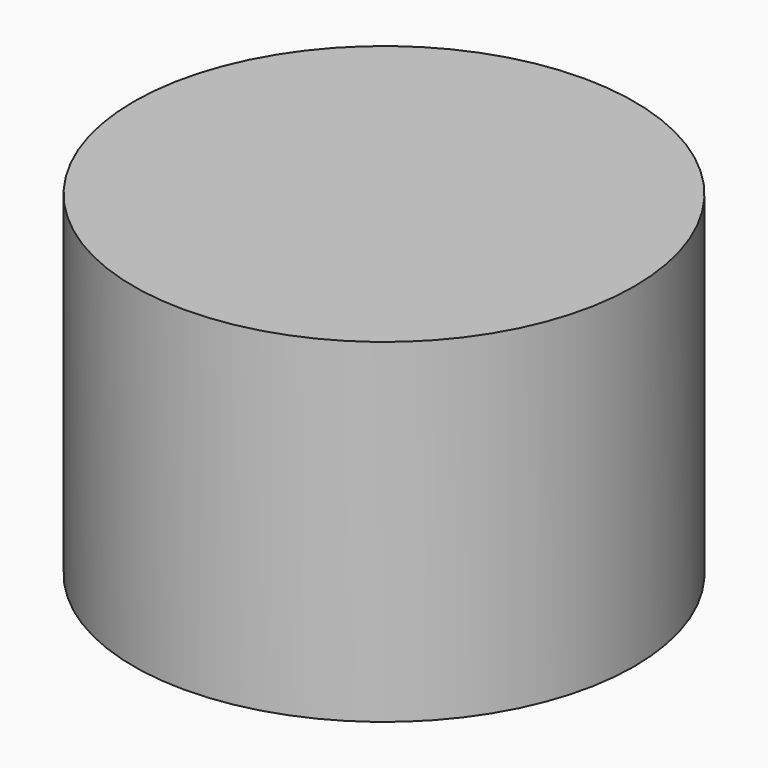
from build123d import *

# Parameters (mm, degrees)
SKETCH_R     = 9.5
PAD_DEPTH    = 12.7
SKETCH001_R  = 6.35
POCKET_DEPTH = 6.35
CHAMFER_SIZE = 1


with BuildPart() as part:
    # Sketch → Pad (new body)
    with BuildSketch(Plane.XY):
        Circle(SKETCH_R)
    extrude(amount=PAD_DEPTH)

    # Sketch001 (on Face2 of Pad) → Pocket (cut)
    with BuildSketch(Plane(origin=(0, 0, 0), x_dir=(1, 0, 0), z_dir=(0, 0, -1))):
        Circle(SKETCH001_R)
    extrude(amount=-POCKET_DEPTH, mode=Mode.SUBTRACT)

    # Chamfer
    chamfer_edges = [part.edges().sort_by_distance(p)[0] for p in [
        (-6.35, 0, 6.35),
    ]]
    chamfer(chamfer_edges, length=CHAMFER_SIZE)


solid = part.part
